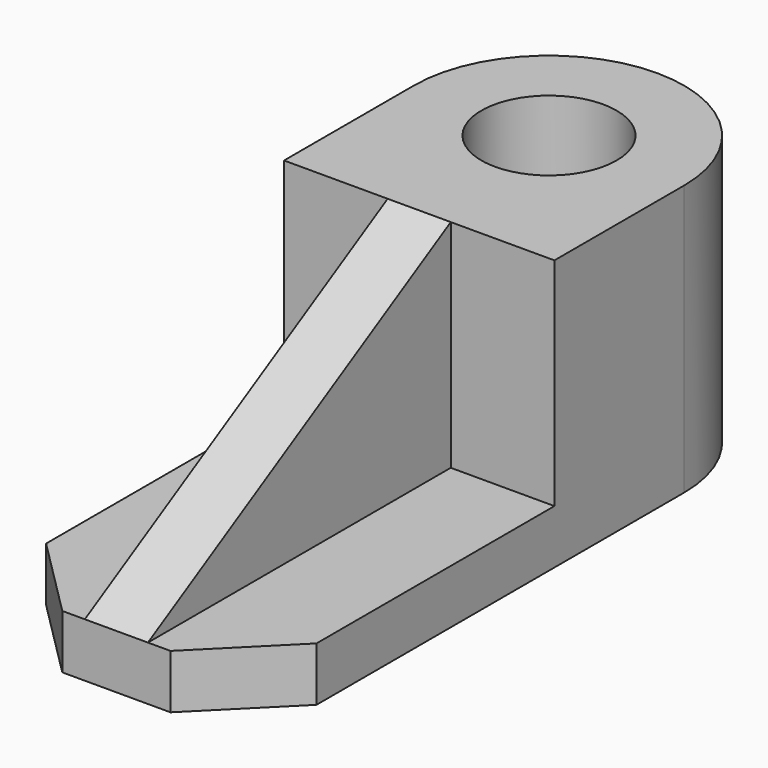
from build123d import *

# Parameters (mm, degrees)
F0_R     = 7.5
F1_DEPTH = 30
F0_W     = 7
F0_H     = 42
F2_DEPTH = 6
F3_W     = 7
F3_H     = 42
F4_DEPTH = 24
F6_DEPTH = 18.501


with BuildPart() as f1:
    # F0 (on Top) → F1 (new body)
    with BuildSketch(Plane.XY):
        with BuildLine():
            Line((15, -18), (15, 0))
            ThreePointArc((15, 0), (0, 15), (-15, 0))
            Line((-15, 0), (-15, -18))
            Line((-15, -18), (-3.5, -18))
            Line((-3.5, -18), (3.5, -18))
            Line((3.5, -18), (15, -18))
        make_face()
        Circle(F0_R, mode=Mode.SUBTRACT)
    extrude(amount=F1_DEPTH)

    # F0 (on Top) → F2 (join)
    with BuildSketch(Plane.XY):
        Polygon((15, -51), (15, -18), (3.5, -18), (3.5, -60), (6, -60), align=None)
        with Locations((0, -39)):
            Rectangle(F0_W, F0_H)
        Polygon((-3.5, -18), (-15, -18), (-15, -51), (-6, -60), (-3.5, -60), align=None)
    extrude(amount=F2_DEPTH)

    # F3 (on face) → F4 (join)
    with BuildSketch(Plane.XY.offset(6)):
        with Locations((0, -39)):
            Rectangle(F3_W, F3_H)
    extrude(amount=F4_DEPTH)

    # F5 (on face) → F6 (cut, through all)
    with BuildSketch(Plane.YZ.offset(3.5)):
        Polygon((-60, 30), (-60, 6), (-18, 30), align=None)
    extrude(amount=-F6_DEPTH, mode=Mode.SUBTRACT)


solid = f1.part
